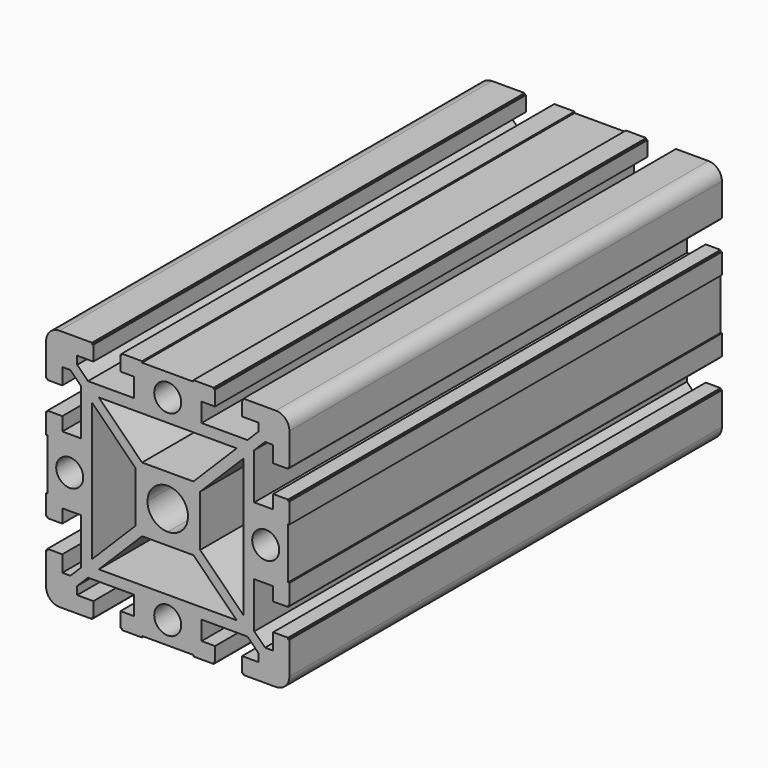
from build123d import *

# Parameters (mm, degrees)
F1_DEPTH = 200


with BuildPart() as f1:
    # F0 (on Front) → F1 (new body)
    with BuildSketch(Plane.XZ):
        with BuildLine():
            Line((0, 41.25), (0, 44.5))
            Line((0, 44.5), (-9.5, 44.5))
            Line((-9.5, 44.5), (-9.5, 45))
            Line((-9.5, 45), (-17, 45))
            Line((-17, 45), (-17, 44.5))
            Line((-17, 44.5), (-17.5, 44.5))
            Line((-17.5, 44.5), (-17.5, 39))
            Line((-17.5, 39), (-12.5, 39))
            Line((-12.5, 39), (-12.5, 32))
            Line((-12.5, 32), (-29.5, 32))
            Line((-29.5, 32), (-33.5, 36))
            Line((-33.5, 36), (-33.5, 39))
            Line((-33.5, 39), (-27.5, 39))
            Line((-27.5, 39), (-27.5, 44.5))
            Line((-27.5, 44.5), (-28, 44.5))
            Line((-28, 44.5), (-28, 45))
            Line((-28, 45), (-40, 45))
            ThreePointArc((-40, 45), (-43.535534, 43.535534), (-45, 40))
            Line((-45, 40), (-45, 28))
            Line((-45, 28), (-44.5, 28))
            Line((-44.5, 28), (-44.5, 27.5))
            Line((-44.5, 27.5), (-39, 27.5))
            Line((-39, 27.5), (-39, 33.5))
            Line((-39, 33.5), (-36, 33.5))
            Line((-36, 33.5), (-32, 29.5))
            Line((-32, 29.5), (-32, 12.5))
            Line((-32, 12.5), (-39, 12.5))
            Line((-39, 12.5), (-39, 17.5))
            Line((-39, 17.5), (-44.5, 17.5))
            Line((-44.5, 17.5), (-44.5, 17))
            Line((-44.5, 17), (-45, 17))
            Line((-45, 17), (-45, 9.5))
            Line((-45, 9.5), (-44.5, 9.5))
            Line((-44.5, 9.5), (-44.5, 0))
            Line((-44.5, 0), (-41.25, 0))
            ThreePointArc((-41.25, 0), (-36.25, 5), (-31.25, 0))
            Line((-31.25, 0), (-28, 0))
            Line((-28, 0), (-28, 25.5))
            Line((-28, 25.5), (-12, 9.5))
            Line((-12, 9.5), (-12, 0))
            Line((-12, 0), (-7.5, 0))
            ThreePointArc((-7.5, 0), (-5.303301, 5.303301), (0, 7.5))
            Line((0, 7.5), (0, 12))
            Line((0, 12), (-9.5, 12))
            Line((-9.5, 12), (-25.5, 28))
            Line((-25.5, 28), (0, 28))
            Line((0, 28), (0, 31.25))
            ThreePointArc((0, 31.25), (-5, 36.25), (0, 41.25))
        make_face()
        with BuildLine():
            Line((40, 45), (28, 45))
            Line((28, 45), (28, 44.5))
            Line((28, 44.5), (27.5, 44.5))
            Line((27.5, 44.5), (27.5, 39))
            Line((27.5, 39), (33.5, 39))
            Line((33.5, 39), (33.5, 36))
            Line((33.5, 36), (29.5, 32))
            Line((29.5, 32), (12.5, 32))
            Line((12.5, 32), (12.5, 39))
            Line((12.5, 39), (17.5, 39))
            Line((17.5, 39), (17.5, 44.5))
            Line((17.5, 44.5), (17, 44.5))
            Line((17, 44.5), (17, 45))
            Line((17, 45), (9.5, 45))
            Line((9.5, 45), (9.5, 44.5))
            Line((9.5, 44.5), (0, 44.5))
            Line((0, 44.5), (0, 41.25))
            ThreePointArc((0, 41.25), (5, 36.25), (0, 31.25))
            Line((0, 31.25), (0, 28))
            Line((0, 28), (25.5, 28))
            Line((25.5, 28), (9.5, 12))
            Line((9.5, 12), (0, 12))
            Line((0, 12), (0, 7.5))
            ThreePointArc((0, 7.5), (5.303301, 5.303301), (7.5, 0))
            Line((7.5, 0), (12, 0))
            Line((12, 0), (12, 9.5))
            Line((12, 9.5), (28, 25.5))
            Line((28, 25.5), (28, 0))
            Line((28, 0), (31.25, 0))
            ThreePointArc((31.25, 0), (36.25, 5), (41.25, 0))
            Line((41.25, 0), (44.5, 0))
            Line((44.5, 0), (44.5, 9.5))
            Line((44.5, 9.5), (45, 9.5))
            Line((45, 9.5), (45, 17))
            Line((45, 17), (44.5, 17))
            Line((44.5, 17), (44.5, 17.5))
            Line((44.5, 17.5), (39, 17.5))
            Line((39, 17.5), (39, 12.5))
            Line((39, 12.5), (32, 12.5))
            Line((32, 12.5), (32, 29.5))
            Line((32, 29.5), (36, 33.5))
            Line((36, 33.5), (39, 33.5))
            Line((39, 33.5), (39, 27.5))
            Line((39, 27.5), (44.5, 27.5))
            Line((44.5, 27.5), (44.5, 28))
            Line((44.5, 28), (45, 28))
            Line((45, 28), (45, 40))
            ThreePointArc((45, 40), (43.535534, 43.535534), (40, 45))
        make_face()
        with BuildLine():
            ThreePointArc((0, -7.5), (-5.303301, -5.303301), (-7.5, 0))
            Line((-7.5, 0), (-12, 0))
            Line((-12, 0), (-12, -9.5))
            Line((-12, -9.5), (-28, -25.5))
            Line((-28, -25.5), (-28, 0))
            Line((-28, 0), (-31.25, 0))
            ThreePointArc((-31.25, 0), (-36.25, -5), (-41.25, 0))
            Line((-41.25, 0), (-44.5, 0))
            Line((-44.5, 0), (-44.5, -9.5))
            Line((-44.5, -9.5), (-45, -9.5))
            Line((-45, -9.5), (-45, -17))
            Line((-45, -17), (-44.5, -17))
            Line((-44.5, -17), (-44.5, -17.5))
            Line((-44.5, -17.5), (-39, -17.5))
            Line((-39, -17.5), (-39, -12.5))
            Line((-39, -12.5), (-32, -12.5))
            Line((-32, -12.5), (-32, -29.5))
            Line((-32, -29.5), (-36, -33.5))
            Line((-36, -33.5), (-39, -33.5))
            Line((-39, -33.5), (-39, -27.5))
            Line((-39, -27.5), (-44.5, -27.5))
            Line((-44.5, -27.5), (-44.5, -28))
            Line((-44.5, -28), (-45, -28))
            Line((-45, -28), (-45, -40))
            ThreePointArc((-45, -40), (-43.535534, -43.535534), (-40, -45))
            Line((-40, -45), (-28, -45))
            Line((-28, -45), (-28, -44.5))
            Line((-28, -44.5), (-27.5, -44.5))
            Line((-27.5, -44.5), (-27.5, -39))
            Line((-27.5, -39), (-33.5, -39))
            Line((-33.5, -39), (-33.5, -36))
            Line((-33.5, -36), (-29.5, -32))
            Line((-29.5, -32), (-12.5, -32))
            Line((-12.5, -32), (-12.5, -39))
            Line((-12.5, -39), (-17.5, -39))
            Line((-17.5, -39), (-17.5, -44.5))
            Line((-17.5, -44.5), (-17, -44.5))
            Line((-17, -44.5), (-17, -45))
            Line((-17, -45), (-9.5, -45))
            Line((-9.5, -45), (-9.5, -44.5))
            Line((-9.5, -44.5), (0, -44.5))
            Line((0, -44.5), (0, -41.25))
            ThreePointArc((0, -41.25), (-5, -36.25), (0, -31.25))
            Line((0, -31.25), (0, -28))
            Line((0, -28), (-25.5, -28))
            Line((-25.5, -28), (-9.5, -12))
            Line((-9.5, -12), (0, -12))
            Line((0, -12), (0, -7.5))
        make_face()
        with BuildLine():
            Line((44.5, -9.5), (44.5, 0))
            Line((44.5, 0), (41.25, 0))
            ThreePointArc((41.25, 0), (36.25, -5), (31.25, 0))
            Line((31.25, 0), (28, 0))
            Line((28, 0), (28, -25.5))
            Line((28, -25.5), (12, -9.5))
            Line((12, -9.5), (12, 0))
            Line((12, 0), (7.5, 0))
            ThreePointArc((7.5, 0), (5.303301, -5.303301), (0, -7.5))
            Line((0, -7.5), (0, -12))
            Line((0, -12), (9.5, -12))
            Line((9.5, -12), (25.5, -28))
            Line((25.5, -28), (0, -28))
            Line((0, -28), (0, -31.25))
            ThreePointArc((0, -31.25), (5, -36.25), (0, -41.25))
            Line((0, -41.25), (0, -44.5))
            Line((0, -44.5), (9.5, -44.5))
            Line((9.5, -44.5), (9.5, -45))
            Line((9.5, -45), (17, -45))
            Line((17, -45), (17, -44.5))
            Line((17, -44.5), (17.5, -44.5))
            Line((17.5, -44.5), (17.5, -39))
            Line((17.5, -39), (12.5, -39))
            Line((12.5, -39), (12.5, -32))
            Line((12.5, -32), (29.5, -32))
            Line((29.5, -32), (33.5, -36))
            Line((33.5, -36), (33.5, -39))
            Line((33.5, -39), (27.5, -39))
            Line((27.5, -39), (27.5, -44.5))
            Line((27.5, -44.5), (28, -44.5))
            Line((28, -44.5), (28, -45))
            Line((28, -45), (40, -45))
            ThreePointArc((40, -45), (43.535534, -43.535534), (45, -40))
            Line((45, -40), (45, -28))
            Line((45, -28), (44.5, -28))
            Line((44.5, -28), (44.5, -27.5))
            Line((44.5, -27.5), (39, -27.5))
            Line((39, -27.5), (39, -33.5))
            Line((39, -33.5), (36, -33.5))
            Line((36, -33.5), (32, -29.5))
            Line((32, -29.5), (32, -12.5))
            Line((32, -12.5), (39, -12.5))
            Line((39, -12.5), (39, -17.5))
            Line((39, -17.5), (44.5, -17.5))
            Line((44.5, -17.5), (44.5, -17))
            Line((44.5, -17), (45, -17))
            Line((45, -17), (45, -9.5))
            Line((45, -9.5), (44.5, -9.5))
        make_face()
    extrude(amount=F1_DEPTH)


solid = f1.part
